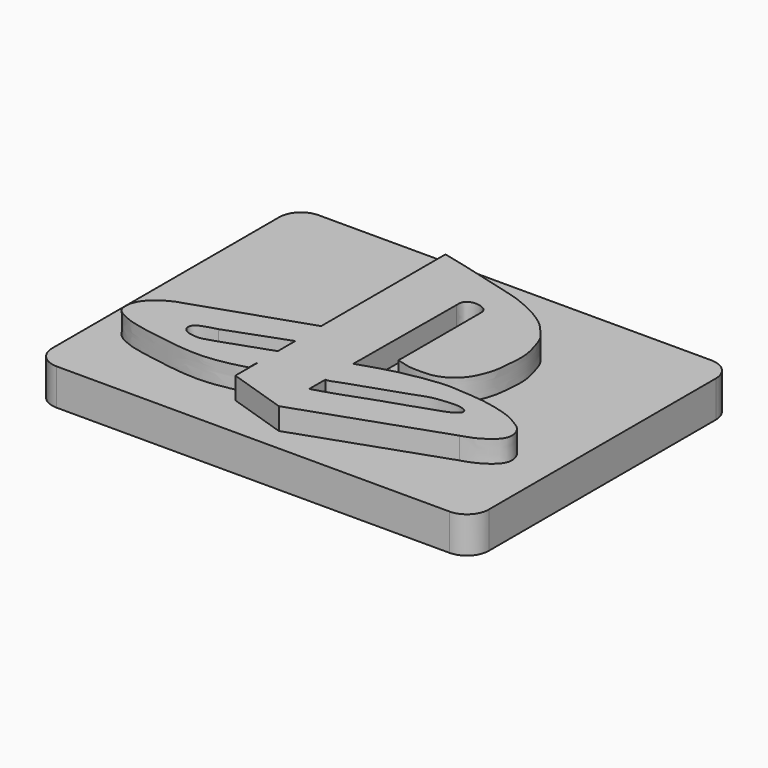
from build123d import *

# Parameters (mm, degrees)
F2_DEPTH = 5
F3_DEPTH = 8


with BuildPart() as f2:
    # F1 (on Top) → F2 (new body)
    with BuildSketch(Plane.XY):
        with BuildLine():
            Line((27.4738721699, 0), (-26.5261278301, 0))
            ThreePointArc((-26.5261278301, 0), (-28.6474481737, -0.8786796564), (-29.5261278301, -3))
            Line((-29.5261278301, -3), (-29.5261278301, -42))
            ThreePointArc((-29.5261278301, -42), (-28.6474481737, -44.1213203436), (-26.5261278301, -45))
            Line((-26.5261278301, -45), (27.4738721699, -45))
            ThreePointArc((27.4738721699, -45), (29.5951925134, -44.1213203436), (30.4738721699, -42))
            Line((30.4738721699, -42), (30.4738721699, -3))
            ThreePointArc((30.4738721699, -3), (29.5951925134, -0.8786796564), (27.4738721699, 0))
        make_face()
    extrude(amount=F2_DEPTH)

    # F0 (on Top) → F3 (join)
    with BuildSketch(Plane.XY):
        with BuildLine():
            add(Edge.make_bspline(
                [(4.8477398232, -25.0401645899), (4.8283468589, -25.2432720923), (4.7985941619, -25.5548797409), (5.0254771174, -25.4767523625), (6.4086412639, -25.9620199331), (7.7691845633, -26.0355678282), (9.3943149072, -26.015901585), (10.1183515228, -25.8756295877), (11.2264767962, -25.4947294098), (12.288924407, -24.787393934), (13.5305725922, -23.40525483), (14.4648810154, -20.8696662608), (14.6143943995, -18.8590898706), (14.9062680328, -15.9813339511), (14.131996272, -13.602760198), (13.6414867697, -11.9302235287), (12.4360768158, -10.6218346184), (11.445045556, -9.4096464912), (9.8589861677, -8.308349319), (8.5296801615, -7.5444323904), (5.9882940318, -6.3744483526), (3.8303725406, -5.8240718726), (1.2640734427, -5.1291728393), (-1.4063094542, -4.4138036119), (-4.0475270316, -3.695403481), (-5.783749203, -3.3025519479), (-6.5977545455, -3.1002212781)],
                knots=[0, 0, 0, 0, 0.021461841, 0.032867262, 0.0697848665, 0.1090774358, 0.1484457033, 0.1757976031, 0.2090770751, 0.2446019861, 0.2874313882, 0.3387065736, 0.3842097954, 0.437479284, 0.4874215015, 0.5287492203, 0.5700071046, 0.6099706214, 0.6529439198, 0.6927420688, 0.7448779442, 0.7927458531, 0.8438491788, 0.8966437334, 0.9490466216, 1, 1, 1, 1], degree=3))
            Line((-6.5977545455, -3.1002212781), (-6.5977545455, -24.4636107236))
            Line((-6.5977545455, -24.4636107236), (-6.5977545455, -28.901623562))
            Line((-6.5977545455, -28.901623562), (-6.5977545455, -32.0437268641))
            add(Edge.make_bspline(
                [(-6.5977545455, -35.0202671048), (-6.5609315592, -33.8419309437), (-6.5382542149, -32.438318784), (-6.5977545455, -32.0437268641)],
                knots=[0.6973070583, 0.6973070583, 0.6973070583, 0.6973070583, 0.7283915831, 0.7283915831, 0.7283915831, 0.7283915831], degree=3))
            Line((-6.5977545455, -35.0202671048), (-6.5977545455, -39.1863986763))
            Line((-6.5977545455, -39.1863986763), (1.4793247683, -41.8238118291))
            Line((1.4793247683, -41.8238118291), (1.5144043604, -36.659462824))
            Line((1.5144043604, -36.659462824), (1.5331322736, -33.9023760302))
            Line((1.5331322736, -33.9023760302), (1.5655184454, -29.134547098))
            Line((1.5655184454, -29.134547098), (1.6851776745, -11.5185491741))
            add(Edge.make_bspline(
                [(1.6851776745, -11.5185491741), (1.6775755473, -11.3627541093), (1.6619686949, -11.0519759234), (1.7772230262, -10.583402734), (2.093916027, -10.2106927201), (2.7680642227, -9.9595240941), (3.5683623893, -9.999020905), (4.0670961191, -10.2047103977), (4.738081155, -10.5435191444), (4.8707980742, -11.2856196362), (4.8549761892, -11.6398680724), (4.8477398232, -11.8032814935)],
                knots=[0, 0, 0, 0, 0.0991123701, 0.197800449, 0.2962026659, 0.4178441895, 0.5460971992, 0.6535655316, 0.7742844678, 0.8956399578, 1, 1, 1, 1], degree=3))
            Line((4.8477398232, -11.8032814935), (4.8477398232, -16.2547621876))
            Line((4.8477398232, -16.2547621876), (4.8477398232, -25.0401645899))
        make_face()
        Polygon((-6.5977545455, -28.901623562), (-6.5977545455, -24.4636107236), (-6.62607674, -24.4731983619), align=None)
        with BuildLine():
            Line((-14.7506026551, -31.8897850811), (-6.5977545455, -28.901623562))
            Line((-6.5977545455, -28.901623562), (-6.62607674, -24.4731983619))
            Line((-6.62607674, -24.4731983619), (-20.8830498159, -29.29947339))
            add(Edge.make_bspline(
                [(-20.8830498159, -29.29947339), (-21.2265490382, -29.4297001784), (-21.7898149338, -29.6432445007), (-22.1843806435, -29.6941648389), (-23.3919466003, -30.2472876339), (-24.5253656413, -31.0955727392), (-25.2780779367, -31.8827826153), (-25.6950165614, -32.6534604897), (-25.9653782371, -33.5007827574), (-25.8886032944, -34.7490796747), (-25.3552289461, -35.2473822034), (-24.7058044218, -35.7160282059), (-23.6398357436, -36.1505124604), (-23.0811240473, -36.3532451056), (-22.5890790094, -36.4708095462), (-21.5331302958, -36.7123136283), (-20.818461117, -36.8885611409), (-19.4733142299, -37.0860315913), (-18.7662976855, -37.2020093016), (-17.2824866664, -37.4158583857), (-16.4491154684, -37.6045751562), (-14.4896206231, -37.7901810155), (-12.9707462442, -37.857226382), (-12.084942727, -37.8230273614), (-10.5292297542, -37.6906849142), (-8.962945837, -37.4013866745), (-7.5199317298, -37.0813738878), (-6.6923647702, -36.8088535667), (-6.6668907472, -36.7924269709), (-6.6234761084, -35.843357535), (-6.5977545455, -35.0202671048)],
                knots=[0, 0, 0, 0, 0.0247451563, 0.0405768098, 0.0689324059, 0.0997510173, 0.1258306267, 0.148942555, 0.172934863, 0.200348362, 0.2211081389, 0.2438019215, 0.2709129605, 0.2901162793, 0.3079866291, 0.3337373731, 0.3564606237, 0.3850429599, 0.407526304, 0.4374404434, 0.4616482968, 0.4968322396, 0.5280950242, 0.5516482743, 0.5827068017, 0.6151600356, 0.6468020947, 0.6684118087, 0.6755939211, 0.6973070583, 0.6973070583, 0.6973070583, 0.6973070583], degree=3))
            Line((-6.5977545455, -35.0202671048), (-6.5977545455, -32.0437268641))
            add(Edge.make_bspline(
                [(-6.5977545455, -32.0437268641), (-6.6020559961, -32.0152006756), (-6.6245130581, -31.9048230225), (-6.6572266683, -31.9237771074), (-6.720810663, -31.9502465427)],
                knots=[0.7283915831, 0.7283915831, 0.7283915831, 0.7283915831, 0.730638773, 0.7390586733, 0.7390586733, 0.7390586733, 0.7390586733], degree=3))
            add(Edge.make_bspline(
                [(-6.720810663, -31.9502465427), (-7.0971005051, -32.1068925617), (-10.6105181866, -33.2644359589), (-14.5221632763, -34.7339362181), (-15.551199536, -34.7834917582), (-16.8203549162, -34.6505502326), (-17.5164981943, -34.0987715357), (-17.671855416, -33.4616221164), (-17.4202809583, -32.6015460045), (-15.8175800981, -32.1742511343), (-14.7506026551, -31.8897850811)],
                knots=[0.7390586733, 0.7390586733, 0.7390586733, 0.7390586733, 0.7888876115, 0.8421126665, 0.8671303845, 0.8947859945, 0.9178541198, 0.9372184875, 0.9582040171, 1, 1, 1, 1], degree=3))
        make_face()
        with BuildLine():
            add(Edge.make_bspline(
                [(-6.5977545455, -35.0202671048), (-6.5609315592, -33.8419309437), (-6.5382542149, -32.438318784), (-6.5977545455, -32.0437268641)],
                knots=[0.6973070583, 0.6973070583, 0.6973070583, 0.6973070583, 0.7283915831, 0.7283915831, 0.7283915831, 0.7283915831], degree=3))
            Line((-6.5977545455, -32.0437268641), (-6.5977545455, -35.0202671048))
        make_face()
        with BuildLine():
            add(Edge.make_bspline(
                [(20.8902377635, -35.0626856089), (21.4872330262, -34.8779623682), (22.7499706423, -34.4872440507), (24.8205126643, -33.0686488716), (25.4742707466, -31.6055701478), (24.9073950294, -29.9272581916), (23.6378449781, -29.0848147416), (22.1518378774, -28.1873091107), (19.6235302811, -27.4668990167), (17.1334372059, -27.0162506436), (15.0289472116, -26.9361989107), (12.8236721346, -26.6732083986), (9.9091344434, -27.0196872968), (7.795744158, -27.3866160061), (5.5698529158, -27.8453453123), (3.0391030127, -28.660124227), (1.5655184454, -29.134547098)],
                knots=[0, 0, 0, 0, 0.0672142168, 0.1421684982, 0.2006297721, 0.2611453279, 0.3192740359, 0.3822129086, 0.4600471628, 0.5369144698, 0.6058075296, 0.6774407295, 0.7595188607, 0.8293983756, 0.9006634671, 1, 1, 1, 1], degree=3))
            Line((1.5655184454, -29.134547098), (1.5331322736, -33.9023760302))
            add(Edge.make_bspline(
                [(1.5331322736, -33.9023760302), (1.6849711013, -33.8939403602), (2.0646303334, -33.8728477314), (3.1466739783, -33.3948867318), (5.8421521293, -32.5152409586), (9.3178037822, -31.3483070466), (11.1641793371, -30.6733916303), (12.8668152496, -30.0346835257), (13.8724435214, -29.8805985468), (15.6226554389, -29.6985099962), (16.6957505781, -29.7264511073), (17.6392312529, -30.054162283), (17.9325575423, -30.6390765952), (16.7705971128, -31.5112582517), (15.4208644629, -31.9437316606), (13.2419841586, -32.7516555389), (9.9384961535, -33.7513303675), (7.8122214218, -34.5909712725), (2.451311503, -36.450631048), (1.7992122061, -36.5620374745), (1.676758402, -36.5990325809)],
                knots=[0, 0, 0, 0, 0.0289711336, 0.0724396949, 0.1433797206, 0.2237468366, 0.2829738008, 0.3371864696, 0.3799280782, 0.4343076427, 0.4786458284, 0.518666862, 0.5465905777, 0.5929086998, 0.6433857811, 0.7070156293, 0.7825549859, 0.8508485966, 0.9485710916, 0.9827035137, 0.9827035137, 0.9827035137, 0.9827035137], degree=3))
            add(Edge.make_bspline(
                [(1.676758402, -36.5990325809), (1.6147053623, -36.6177797225), (1.5645548614, -36.6386212732), (1.5144043604, -36.659462824)],
                knots=[0.9827035137, 0.9827035137, 0.9827035137, 0.9827035137, 1, 1, 1, 1], degree=3))
            Line((1.5144043604, -36.659462824), (1.4793247683, -41.8238118291))
            Line((1.4793247683, -41.8238118291), (20.8902377635, -35.0626856089))
        make_face()
    extrude(amount=F3_DEPTH)


solid = f2.part
